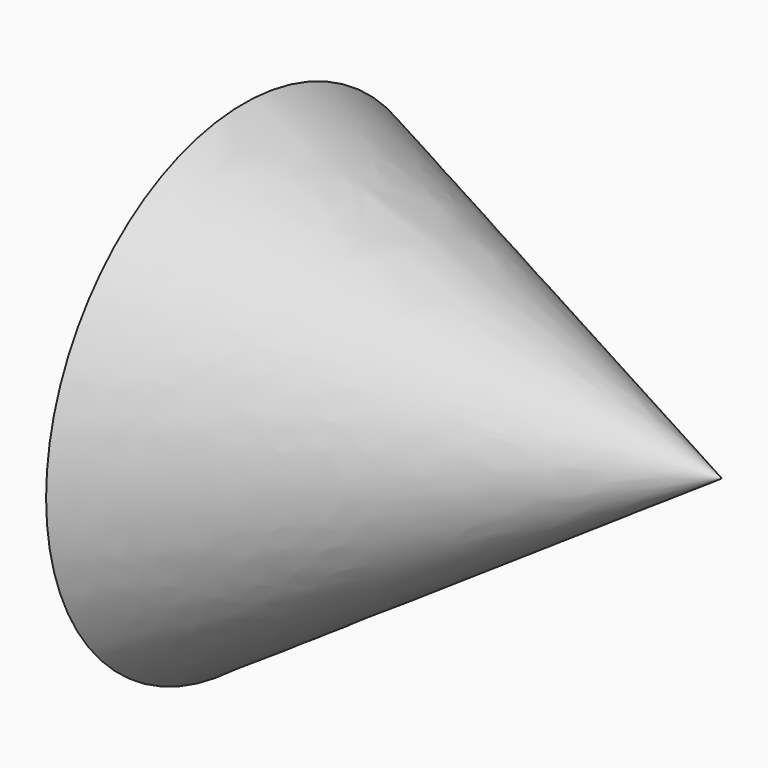
from build123d import *

# Parameters (mm, degrees)
F0_R     = 40.5049898026
F1_DEPTH = 554.8116564751
F3_R     = 50.489167609


with BuildPart() as f1:
    # F0 (on Top) → F1 (new body)
    with BuildSketch(Plane.XY):
        Circle(F0_R)
    extrude(amount=F1_DEPTH)


with BuildPart() as f5:
    # F3 (on Right) → F5 section 0
    with BuildSketch(Plane.YZ, mode=Mode.PRIVATE) as f5_s0:
        Circle(F3_R)
    loft([Vertex(80.0207555294, 22.1875607967, 0), f5_s0.sketch])


solid = f5.part
